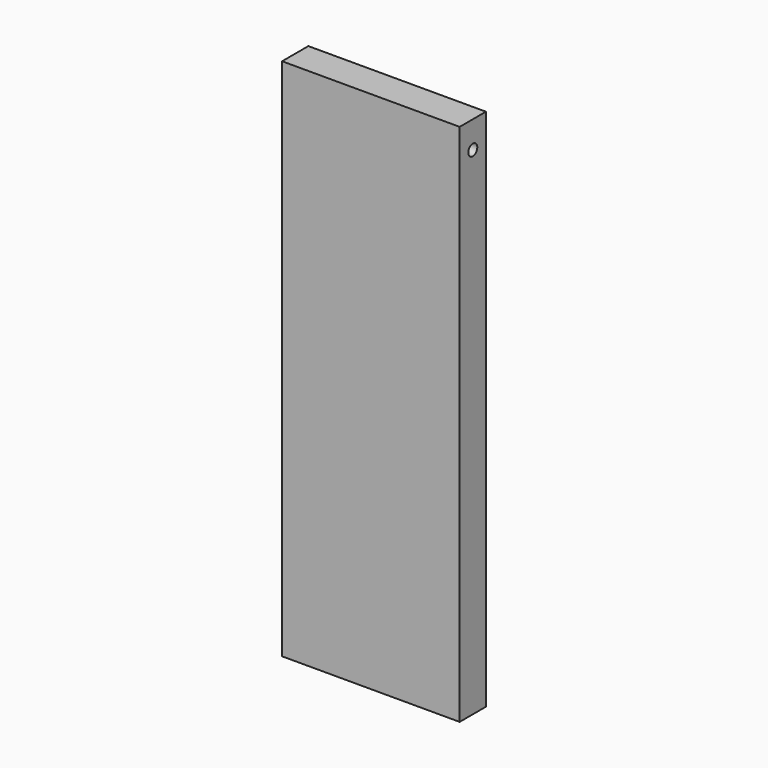
from build123d import *

# Parameters (mm, degrees)
F0_W     = 50.8
F0_H     = 149.86
F1_DEPTH = 4.699
F2_R     = 1.6129
F3_DEPTH = 89.408


with BuildPart() as f1:
    # F0 (on Front) → F1 (new body, symmetric)
    with BuildSketch(Plane.XZ):
        with Locations((-28.233195, 34.626159)):
            Rectangle(F0_W, F0_H)
    extrude(amount=F1_DEPTH, both=True)

    # F2 (on face) → F3 (cut)
    with BuildSketch(Plane.YZ.offset(-2.833195)):
        with Locations((0, 101.841755)):
            Circle(F2_R)
    extrude(amount=-F3_DEPTH, mode=Mode.SUBTRACT)


solid = f1.part
